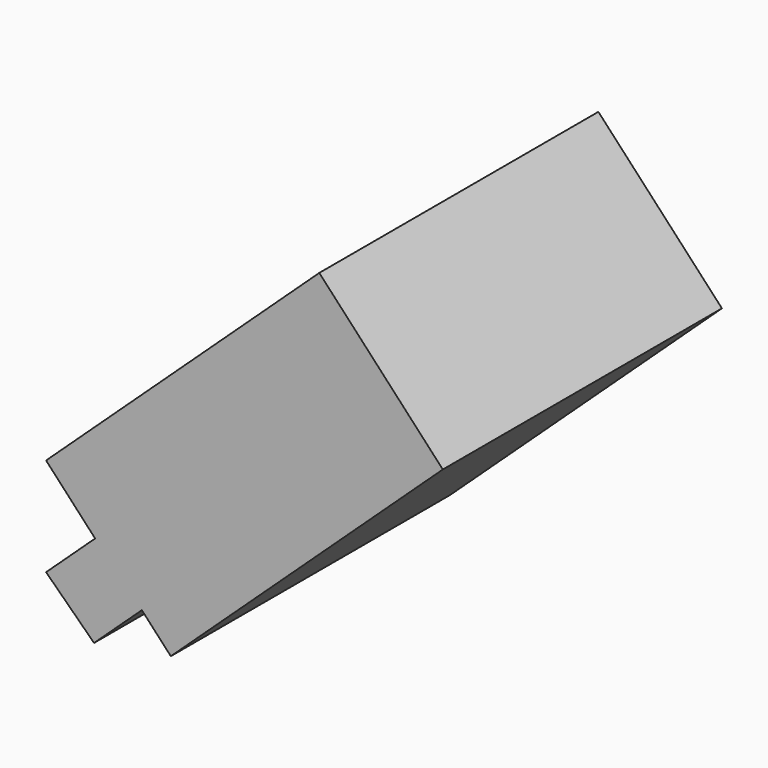
from build123d import *

# Parameters (mm, degrees)
F0_W     = 4.2024515569
F0_H     = 12.3226391152
F1_DEPTH = 25


with BuildPart() as f1:
    # F0 (on Front) → F1 (new body)
    with BuildSketch(Plane.XZ):
        with Locations((22.6418208331, -0.4750718363)):
            Rectangle(F0_W, F0_H)
    extrude(amount=F1_DEPTH)


with BuildPart() as f1b:
    # F0 (on Front) → F1, piece 2 (new body)
    with BuildSketch(Plane.XZ):
        Polygon((52.4395957523, 24.4672579743), (43.5876576167, 33.9897979507), (24.0114504894, 15.7921978513), (27.5258704588, 12.0115337595), (24.0114504894, 8.7446083143), (27.4481885135, 5.3967726417), (30.8740026641, 8.5813321185), (32.9489489509, 6.3491928217), align=None)
    extrude(amount=F1_DEPTH)


solid = f1b.part
